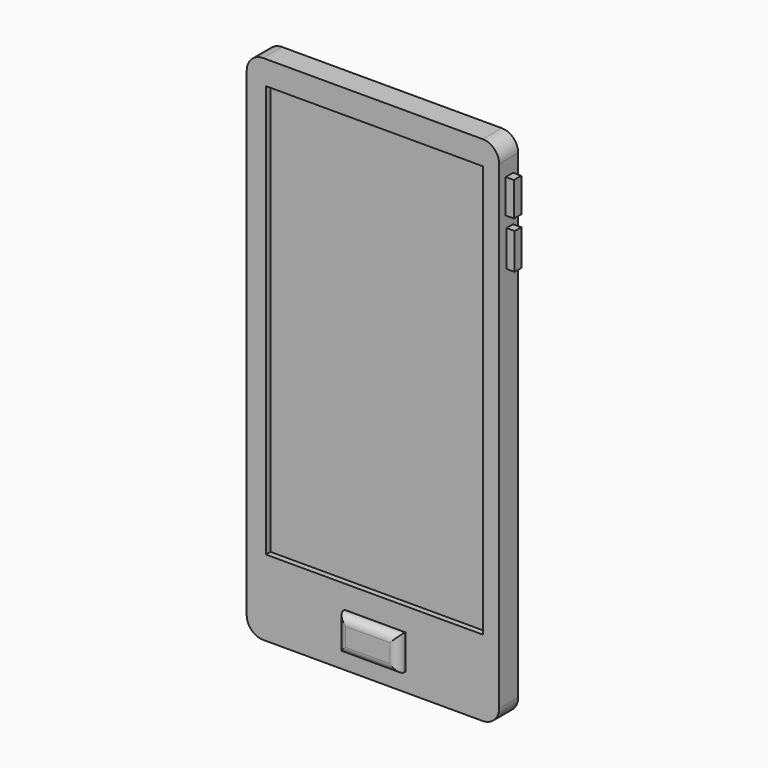
from build123d import *

# Parameters (mm, degrees)
F0_W      = 77.978
F0_H      = 158.242
F1_DEPTH  = 7.366
F2_W      = 67.158103
F2_H      = 127.396881
F3_DEPTH  = 5.588
F4_W      = 67.56512
F4_H      = 127.396889
F5_DEPTH  = 5.588
F6_R      = 5.08
F7_R      = 5.08
F8_R      = 5.08
F9_R      = 5.08
F10_R     = 1.75
F11_DEPTH = 5.588
F12_W     = 2.839187
F12_H     = 10.481581
F12_W_2   = 2.550296
F12_H_2   = 11.106588
F13_DEPTH = 2.54
F14_W     = 18.749708
F14_H     = 10.771107
F15_DEPTH = 10.16
F16_R     = 2.54


with BuildPart() as f1:
    # F0 (on Front) → F1 (new body)
    with BuildSketch(Plane.XZ):
        with Locations((4.748793, 22.312367)):
            Rectangle(F0_W, F0_H)
    extrude(amount=F1_DEPTH)

    # F2 (on face) → F3 (cut)
    with BuildSketch(Plane.XZ.offset(7.366)):
        with Locations((5.230792, 30.384123)):
            Rectangle(F2_W, F2_H)
    extrude(amount=-F3_DEPTH, mode=Mode.SUBTRACT)

    # F6
    f6_edges = [f1.edges().sort_by_distance(p)[0] for p in [
        (-34.240207, -3.683, 101.433367),
    ]]
    fillet(f6_edges, radius=F6_R)

    # F7
    f7_edges = [f1.edges().sort_by_distance(p)[0] for p in [
        (43.737793, -3.683, 101.433367),
    ]]
    fillet(f7_edges, radius=F7_R)

    # F8
    f8_edges = [f1.edges().sort_by_distance(p)[0] for p in [
        (43.737793, -3.683, -56.808633),
    ]]
    fillet(f8_edges, radius=F8_R)

    # F9
    f9_edges = [f1.edges().sort_by_distance(p)[0] for p in [
        (-34.240207, -3.683, -56.808633),
    ]]
    fillet(f9_edges, radius=F9_R)

    # F10 (on face) → F11 (cut)
    with BuildSketch(Plane(origin=(0, 0, -56.808633), x_dir=(1, 0, 0), z_dir=(0, 0, -1))):
        with Locations((34.986332, 3.786506)):
            Circle(F10_R)
    extrude(amount=-F11_DEPTH, mode=Mode.SUBTRACT)


with BuildPart() as f5:
    # F4 (on Front) → F5 (new body)
    with BuildSketch(Plane.XZ):
        with Locations((5.027283, 29.977109)):
            Rectangle(F4_W, F4_H)
    extrude(amount=F5_DEPTH)


with BuildPart() as f13:
    # F12 (on face) → F13 (new body)
    with BuildSketch(Plane.YZ.offset(43.737793)):
        with Locations((-3.406454, 86.518511)):
            Rectangle(F12_W, F12_H)
        with Locations((-3.262008, 72.206896)):
            Rectangle(F12_W_2, F12_H_2)
    extrude(amount=F13_DEPTH)


with BuildPart() as f15:
    # F14 (on Front) → F15 (new body)
    with BuildSketch(Plane.XZ):
        with Locations((5.361802, -45.839356)):
            Rectangle(F14_W, F14_H)
    extrude(amount=F15_DEPTH)

    # F16
    f16_edges = [f15.edges().sort_by_distance(p)[0] for p in [
        (5.361802, -10.16, -40.453803),
        (-4.013052, -10.16, -45.839356),
        (14.736656, -10.16, -45.839356),
        (5.361802, -10.16, -51.22491),
    ]]
    fillet(f16_edges, radius=F16_R)


solid = Compound([f1.part, f5.part, f13.part, f15.part])
